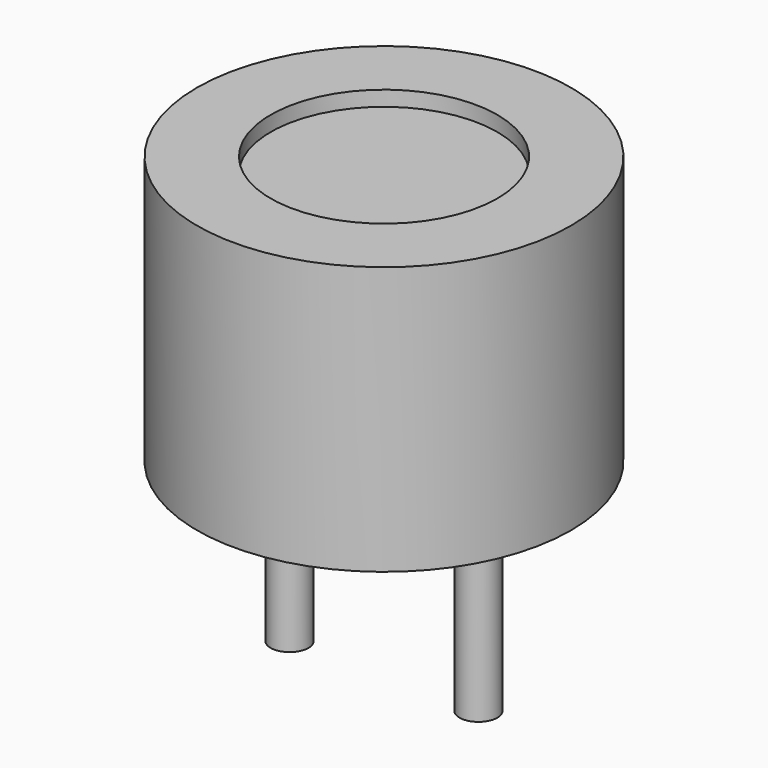
from build123d import *

# Parameters (mm, degrees)
SKETCH_R     = 4.95
PAD_DEPTH    = 7.1
SKETCH001_R  = 0.5
PAD001_DEPTH = 5
SKETCH002_R  = 3
POCKET_DEPTH = 0.4


with BuildPart() as part:
    # Sketch → Pad (new body)
    with BuildSketch(Plane.XY):
        Circle(SKETCH_R)
    extrude(amount=PAD_DEPTH)

    # Sketch001 → Pad001 (new body)
    with BuildSketch(Plane(origin=(0, 0, 0), x_dir=(1, 0, 0), z_dir=(0, 0, -1))):
        with Locations((2.5, 0)):
            Circle(SKETCH001_R)
        with Locations((-2.5, 0)):
            Circle(SKETCH001_R)
    extrude(amount=PAD001_DEPTH)

    # Sketch002 → Pocket (cut)
    with BuildSketch(Plane.XY.offset(7.1)):
        Circle(SKETCH002_R)
    extrude(amount=-POCKET_DEPTH, mode=Mode.SUBTRACT)


solid = part.part
